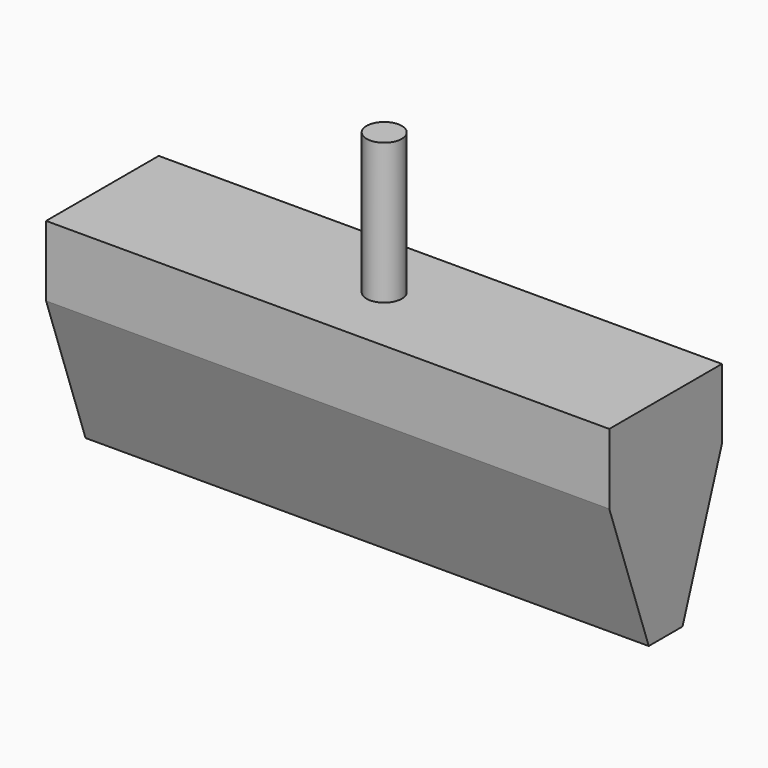
from build123d import *

# Parameters (mm, degrees)
F0_W      = 2.54
F0_H      = 1.27
F1_DEPTH  = 10.16
F2_R      = 0.254
F3_DEPTH  = 2.54
F4_R      = 0.3175
F5_DEPTH  = 2.54
F6_R      = 0.254
F7_DEPTH  = 2.54
F8_R      = 0.254
F9_DEPTH  = 2.54
F10_R     = 0.254
F11_DEPTH = 2.54


with BuildPart() as f1:
    # F0 (on Right) → F1 (new body)
    with BuildSketch(Plane.YZ):
        with Locations((-0.004628, 0.539757)):
            Rectangle(F0_W, F0_H)
        Polygon((1.265372, -0.095243), (-1.274628, -0.095243), (-0.384839, -2.635243), (0.377161, -2.635243), align=None)
    extrude(amount=F1_DEPTH)

    # F2 (on face) → F3 (cut)
    with BuildSketch(Plane(origin=(0, 0, -2.635243), x_dir=(1, 0, 0), z_dir=(0, 0, -1))):
        with Locations((1.27, 0)):
            Circle(F2_R)
    extrude(amount=-F3_DEPTH, mode=Mode.SUBTRACT)

    # F4 (on face) → F5 (join)
    with BuildSketch(Plane.XY.offset(1.174757)):
        with Locations((5.08, 0)):
            Circle(F4_R)
    extrude(amount=F5_DEPTH)

    # F6 (on face) → F7 (cut)
    with BuildSketch(Plane(origin=(0, 0, -2.635243), x_dir=(1, 0, 0), z_dir=(0, 0, -1))):
        with Locations((8.89, 0)):
            Circle(F6_R)
    extrude(amount=-F7_DEPTH, mode=Mode.SUBTRACT)

    # F8 (on face) → F9 (cut)
    with BuildSketch(Plane(origin=(0, 0, -2.635243), x_dir=(1, 0, 0), z_dir=(0, 0, -1))):
        with Locations((3.81, 0)):
            Circle(F8_R)
    extrude(amount=-F9_DEPTH, mode=Mode.SUBTRACT)

    # F10 (on face) → F11 (cut)
    with BuildSketch(Plane(origin=(0, 0, -2.635243), x_dir=(1, 0, 0), z_dir=(0, 0, -1))):
        with Locations((6.35, 0)):
            Circle(F10_R)
    extrude(amount=-F11_DEPTH, mode=Mode.SUBTRACT)


solid = f1.part
